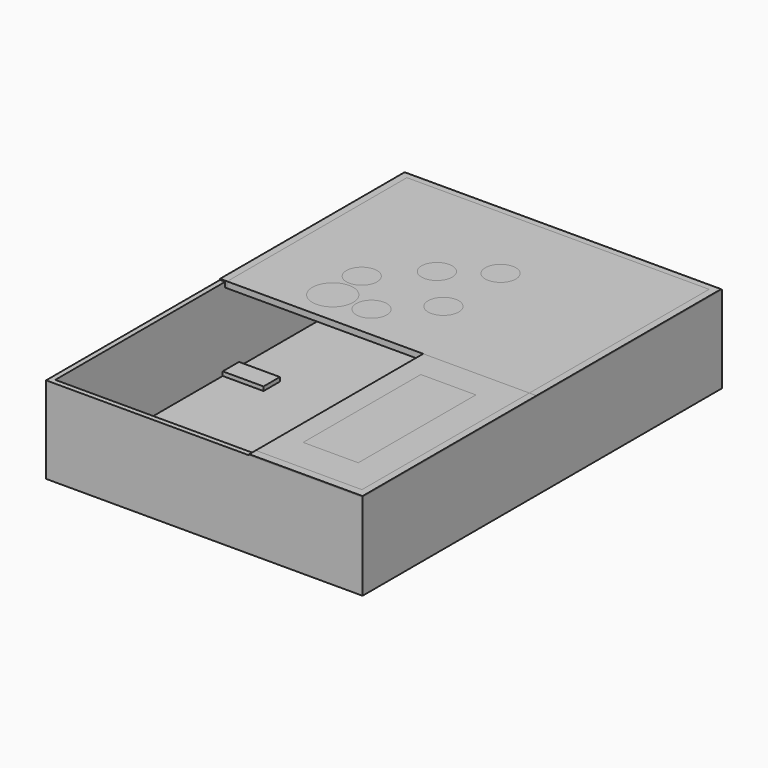
from build123d import *

# Parameters (mm, degrees)
BOX_W                     = 155
BOX_H                     = 113
BOX_DEPTH                 = 3
BOX010_W                  = 55.5
BOX010_H                  = 106.5
BOX010_DEPTH              = 3
BOX015_W                  = 10
BOX015_H                  = 10
BOX015_DEPTH              = 2
CYLINDER003_R             = 3
CYLINDER003_DEPTH         = 10
CYLINDER004_R             = 3
CYLINDER004_DEPTH         = 10
BOX013_W                  = 2.5
BOX013_H                  = 110
BOX013_DEPTH              = 42.5
BOX016_W                  = 155
BOX016_H                  = 2.5
BOX016_DEPTH              = 42.5
BOX011_W                  = 155
BOX011_H                  = 110
BOX011_DEPTH              = 2.5
BOX012_W                  = 2.5
BOX012_H                  = 110
BOX012_DEPTH              = 42.5
BOX014_W                  = 10
BOX014_H                  = 10
BOX014_DEPTH              = 2
FUSION003_PLACEMENT_ANGLE = 180
CYLINDER001_R             = 3
CYLINDER001_DEPTH         = 10
CYLINDER002_R             = 3
CYLINDER002_DEPTH         = 10
BOX006_W                  = 2.5
BOX006_H                  = 110
BOX006_DEPTH              = 42.5
BOX007_W                  = 155
BOX007_H                  = 2.5
BOX007_DEPTH              = 42.5
BOX004_W                  = 155
BOX004_H                  = 110
BOX004_DEPTH              = 2.5
BOX005_W                  = 2.5
BOX005_H                  = 110
BOX005_DEPTH              = 42.5
BOX009_W                  = 10
BOX009_H                  = 10
BOX009_DEPTH              = 2
BOX008_W                  = 10
BOX008_H                  = 10
BOX008_DEPTH              = 2
BOX019_W                  = 27
BOX019_H                  = 72
BOX019_DEPTH              = 3
BOX018_W                  = 52
BOX018_H                  = 102.5
BOX018_DEPTH              = 3
CYLINDER009_R             = 10
CYLINDER009_DEPTH         = 3
CYLINDER005_R             = 7.5
CYLINDER005_DEPTH         = 3
CYLINDER006_R             = 7.5
CYLINDER006_DEPTH         = 3
CYLINDER007_R             = 7.5
CYLINDER007_DEPTH         = 3
CYLINDER008_R             = 7.5
CYLINDER008_DEPTH         = 3
CYLINDER_R                = 7.5
CYLINDER_DEPTH            = 3
BOX017_W                  = 148
BOX017_H                  = 110
BOX017_DEPTH              = 3


with BuildPart() as tampa1:
    # Box → Box (new body)
    with BuildSketch(Plane(origin=(0, -3.5, 40), x_dir=(1, 0, 0), z_dir=(0, 0, 1))):
        with Locations((77.5, 56.5)):
            Rectangle(BOX_W, BOX_H)
    extrude(amount=BOX_DEPTH)


with BuildPart() as tampa2:
    # Box010 → Box010 (new body)
    with BuildSketch(Plane(origin=(99.5, -110, 40), x_dir=(1, 0, 0), z_dir=(0, 0, 1))):
        with Locations((27.75, 53.25)):
            Rectangle(BOX010_W, BOX010_H)
    extrude(amount=BOX010_DEPTH)


with BuildPart() as suporte003:
    # Box015 → Box015 (new body)
    with BuildSketch(Plane(origin=(132.5, -5, 2.5), x_dir=(1, 0, 0), z_dir=(0, 0, 1))):
        with Locations((5, 5)):
            Rectangle(BOX015_W, BOX015_H)
    extrude(amount=BOX015_DEPTH)


with BuildPart() as cylinder003:
    # Cylinder003 → Cylinder003 (new body)
    with BuildSketch(Plane(origin=(10, 100, 0), x_dir=(1, 0, 0), z_dir=(0, 0, 1))):
        Circle(CYLINDER003_R)
    extrude(amount=CYLINDER003_DEPTH)


with BuildPart() as cylinder004:
    # Cylinder004 → Cylinder004 (new body)
    with BuildSketch(Plane(origin=(146, 100, 0), x_dir=(1, 0, 0), z_dir=(0, 0, 1))):
        Circle(CYLINDER004_R)
    extrude(amount=CYLINDER004_DEPTH)


with BuildPart() as obj1:
    # Box013 → Box013 (new body)
    with BuildSketch(Plane(origin=(152.5, 0, 0), x_dir=(1, 0, 0), z_dir=(0, 0, 1))):
        with Locations((1.25, 55)):
            Rectangle(BOX013_W, BOX013_H)
    extrude(amount=BOX013_DEPTH)


with BuildPart() as obj2:
    # Box016 → Box016 (new body)
    with BuildSketch(Plane(origin=(0, 107.5, 0), x_dir=(1, 0, 0), z_dir=(0, 0, 1))):
        with Locations((77.5, 1.25)):
            Rectangle(BOX016_W, BOX016_H)
    extrude(amount=BOX016_DEPTH)


with BuildPart() as base001:
    # Box011 → Box011 (new body)
    with BuildSketch(Plane.XY):
        with Locations((77.5, 55)):
            Rectangle(BOX011_W, BOX011_H)
    extrude(amount=BOX011_DEPTH)


with BuildPart() as cut003:
    # Box012 → Box012 (new body)
    with BuildSketch(Plane.XY):
        with Locations((1.25, 55)):
            Rectangle(BOX012_W, BOX012_H)
    extrude(amount=BOX012_DEPTH)

    # Fusion004: union obj1, obj2, base001
    add(obj1.part)
    add(obj2.part)
    add(base001.part)

    # Cut002: cut Cylinder004
    add(cylinder004.part, mode=Mode.SUBTRACT)

    # Cut003: cut Cylinder003
    add(cylinder003.part, mode=Mode.SUBTRACT)


with BuildPart() as obj3:
    # Box014 → Box014 (new body)
    with BuildSketch(Plane(origin=(12.5, -5, 2.5), x_dir=(1, 0, 0), z_dir=(0, 0, 1))):
        with Locations((5, 5)):
            Rectangle(BOX014_W, BOX014_H)
    extrude(amount=BOX014_DEPTH)

    # Fusion003: union suporte003, Cut003
    add(suporte003.part)
    add(cut003.part)


with BuildPart() as obj3_1:
    # Fusion003 placement: moved
    add(obj3.part.moved(Location((155, 0, 0))).rotate(Axis((155, 0, 0), (0, 0, 1)), FUSION003_PLACEMENT_ANGLE))


with BuildPart() as cylinder001:
    # Cylinder001 → Cylinder001 (new body)
    with BuildSketch(Plane(origin=(10, 100, 0), x_dir=(1, 0, 0), z_dir=(0, 0, 1))):
        Circle(CYLINDER001_R)
    extrude(amount=CYLINDER001_DEPTH)


with BuildPart() as cylinder002:
    # Cylinder002 → Cylinder002 (new body)
    with BuildSketch(Plane(origin=(146, 100, 0), x_dir=(1, 0, 0), z_dir=(0, 0, 1))):
        Circle(CYLINDER002_R)
    extrude(amount=CYLINDER002_DEPTH)


with BuildPart() as obj4:
    # Box006 → Box006 (new body)
    with BuildSketch(Plane(origin=(152.5, 0, 0), x_dir=(1, 0, 0), z_dir=(0, 0, 1))):
        with Locations((1.25, 55)):
            Rectangle(BOX006_W, BOX006_H)
    extrude(amount=BOX006_DEPTH)


with BuildPart() as obj5:
    # Box007 → Box007 (new body)
    with BuildSketch(Plane(origin=(0, 107.5, 0), x_dir=(1, 0, 0), z_dir=(0, 0, 1))):
        with Locations((77.5, 1.25)):
            Rectangle(BOX007_W, BOX007_H)
    extrude(amount=BOX007_DEPTH)


with BuildPart() as base:
    # Box004 → Box004 (new body)
    with BuildSketch(Plane.XY):
        with Locations((77.5, 55)):
            Rectangle(BOX004_W, BOX004_H)
    extrude(amount=BOX004_DEPTH)


with BuildPart() as cut001:
    # Box005 → Box005 (new body)
    with BuildSketch(Plane.XY):
        with Locations((1.25, 55)):
            Rectangle(BOX005_W, BOX005_H)
    extrude(amount=BOX005_DEPTH)

    # Fusion001: union obj4, obj5, base
    add(obj4.part)
    add(obj5.part)
    add(base.part)

    # Cut: cut Cylinder002
    add(cylinder002.part, mode=Mode.SUBTRACT)

    # Cut001: cut Cylinder001
    add(cylinder001.part, mode=Mode.SUBTRACT)


with BuildPart() as fusion:
    # Box009 → Box009 (new body)
    with BuildSketch(Plane(origin=(142.5, -5, 2.5), x_dir=(1, 0, 0), z_dir=(0, 0, 1))):
        with Locations((5, 5)):
            Rectangle(BOX009_W, BOX009_H)
    extrude(amount=BOX009_DEPTH)

    # Fusion: union Cut001
    add(cut001.part)


with BuildPart() as caixa:
    # Box008 → Box008 (new body)
    with BuildSketch(Plane(origin=(2.5, -5, 2.5), x_dir=(1, 0, 0), z_dir=(0, 0, 1))):
        with Locations((5, 5)):
            Rectangle(BOX008_W, BOX008_H)
    extrude(amount=BOX008_DEPTH)

    # Fusion002: union Fusion
    add(fusion.part)

    # Fusion005: union obj3
    add(obj3_1.part)


with BuildPart() as obj6:
    # Box019 → Box019 (new body)
    with BuildSketch(Plane(origin=(109.5, -89.5, 40), x_dir=(1, 0, 0), z_dir=(0, 0, 1))):
        with Locations((13.5, 36)):
            Rectangle(BOX019_W, BOX019_H)
    extrude(amount=BOX019_DEPTH)


with BuildPart() as obj7:
    # Box018 → Box018 (new body)
    with BuildSketch(Plane(origin=(99.5, -106, 40), x_dir=(1, 0, 0), z_dir=(0, 0, 1))):
        with Locations((26, 51.25)):
            Rectangle(BOX018_W, BOX018_H)
    extrude(amount=BOX018_DEPTH)

    # Cut004: cut obj6
    add(obj6.part, mode=Mode.SUBTRACT)


with BuildPart() as buzzer:
    # Cylinder009 → Cylinder009 (new body)
    with BuildSketch(Plane(origin=(42, 13, 40), x_dir=(1, 0, 0), z_dir=(0, 0, 1))):
        Circle(CYLINDER009_R)
    extrude(amount=CYLINDER009_DEPTH)


with BuildPart() as obj8:
    # Cylinder005 → Cylinder005 (new body)
    with BuildSketch(Plane(origin=(61, 13, 40), x_dir=(1, 0, 0), z_dir=(0, 0, 1))):
        Circle(CYLINDER005_R)
    extrude(amount=CYLINDER005_DEPTH)


with BuildPart() as obj9:
    # Cylinder006 → Cylinder006 (new body)
    with BuildSketch(Plane(origin=(61, 53, 40), x_dir=(1, 0, 0), z_dir=(0, 0, 1))):
        Circle(CYLINDER006_R)
    extrude(amount=CYLINDER006_DEPTH)


with BuildPart() as obj10:
    # Cylinder007 → Cylinder007 (new body)
    with BuildSketch(Plane(origin=(81, 32, 40), x_dir=(1, 0, 0), z_dir=(0, 0, 1))):
        Circle(CYLINDER007_R)
    extrude(amount=CYLINDER007_DEPTH)


with BuildPart() as obj11:
    # Cylinder008 → Cylinder008 (new body)
    with BuildSketch(Plane(origin=(81, 67, 40), x_dir=(1, 0, 0), z_dir=(0, 0, 1))):
        Circle(CYLINDER008_R)
    extrude(amount=CYLINDER008_DEPTH)


with BuildPart() as obj12:
    # Cylinder → Cylinder (new body)
    with BuildSketch(Plane(origin=(41, 32, 40), x_dir=(1, 0, 0), z_dir=(0, 0, 1))):
        Circle(CYLINDER_R)
    extrude(amount=CYLINDER_DEPTH)


with BuildPart() as obj13:
    # Box017 → Box017 (new body)
    with BuildSketch(Plane(origin=(3.5, -3.5, 40), x_dir=(1, 0, 0), z_dir=(0, 0, 1))):
        with Locations((74, 55)):
            Rectangle(BOX017_W, BOX017_H)
    extrude(amount=BOX017_DEPTH)

    # Cut005: cut obj12
    add(obj12.part, mode=Mode.SUBTRACT)

    # Cut006: cut obj11
    add(obj11.part, mode=Mode.SUBTRACT)

    # Cut007: cut obj11
    add(obj11.part, mode=Mode.SUBTRACT)

    # Cut008: cut obj10
    add(obj10.part, mode=Mode.SUBTRACT)

    # Cut009: cut obj9
    add(obj9.part, mode=Mode.SUBTRACT)

    # Cut010: cut obj8
    add(obj8.part, mode=Mode.SUBTRACT)

    # Cut011: cut buzzer
    add(buzzer.part, mode=Mode.SUBTRACT)


solid = Compound([tampa1.part, tampa2.part, caixa.part, obj7.part, obj13.part])
